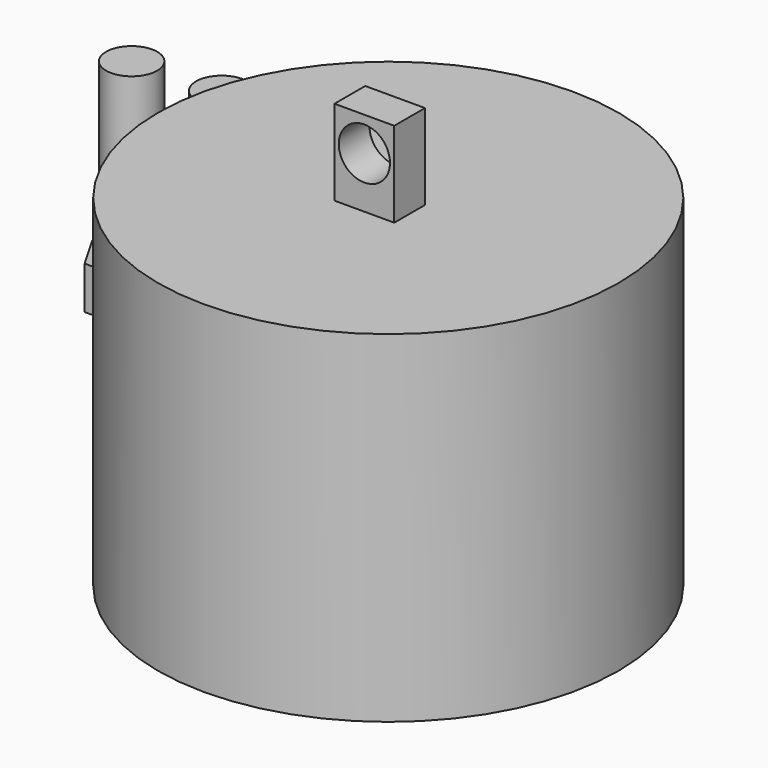
from build123d import *

# Parameters (mm, degrees)
F0_R      = 34.29
F1_DEPTH  = 50.8
F2_W      = 8.89
F2_H      = 5.715
F3_DEPTH  = 12.7
F4_R      = 3.81
F5_DEPTH  = 25.4
F7_DEPTH  = 6.35
F8_R      = 3.81
F9_DEPTH  = 15.24
F10_R     = 3.81
F11_DEPTH = 12.7
F13_DEPTH = 0.508
F15_DEPTH = 6.35
F16_R     = 3.81
F17_DEPTH = 25.4


with BuildPart() as f1:
    # F0 (on Top) → F1 (new body)
    with BuildSketch(Plane.XY):
        Circle(F0_R)
    extrude(amount=F1_DEPTH)

    # F2 (on face) → F3 (join)
    with BuildSketch(Plane.XY.offset(50.8)):
        with Locations((0, -1.5875)):
            Rectangle(F2_W, F2_H)
    extrude(amount=F3_DEPTH)

    # F4 (on face) → F5 (cut)
    with BuildSketch(Plane.XZ.offset(4.445)):
        with Locations((0, 58.42)):
            Circle(F4_R)
    extrude(amount=-F5_DEPTH, mode=Mode.SUBTRACT)


with BuildPart() as f7:
    # F6 (on Top) → F7 (new body)
    with BuildSketch(Plane.XY):
        Polygon((-69.9456740787, 47.7052103114), (-64.0797953437, 47.7052103114), (-61.1468559762, 52.7852103114), (-64.0797953437, 57.8652103114), (-69.9456740787, 57.8652103114), (-72.8786134461, 52.7852103114), align=None)
    extrude(amount=F7_DEPTH)

    # F8 (on face) → F9 (join)
    with BuildSketch(Plane.XY.offset(6.35)):
        with Locations((-67.0127347112, 52.7852103114)):
            Circle(F8_R)
    extrude(amount=F9_DEPTH)


with BuildPart() as f11:
    # F10 (on Top) → F11 (new body)
    with BuildSketch(Plane.XY):
        with Locations((-43.18, 50.8)):
            Circle(F10_R)
    extrude(amount=F11_DEPTH)

    # F12 (on face) → F13 (cut)
    with BuildSketch(Plane.XY.offset(12.7)):
        with BuildLine():
            ThreePointArc((-46.9559814618, 51.308), (-46.99, 50.8), (-46.9559814618, 50.292))
            Line((-46.9559814618, 50.292), (-39.4040185382, 50.292))
            ThreePointArc((-39.4040185382, 50.292), (-39.37, 50.8), (-39.4040185382, 51.308))
            Line((-39.4040185382, 51.308), (-46.9559814618, 51.308))
        make_face()
    extrude(amount=-F13_DEPTH, mode=Mode.SUBTRACT)


with BuildPart() as f15:
    # F14 (on Top) → F15 (new body)
    with BuildSketch(Plane.XY):
        Polygon((-70.5642212798, 31.7261475456), (-64.6983425448, 31.7261475456), (-61.7654031774, 36.8061475456), (-64.6983425448, 41.8861475456), (-70.5642212798, 41.8861475456), (-73.4971606473, 36.8061475456), align=None)
    extrude(amount=F15_DEPTH)

    # F16 (on face) → F17 (join)
    with BuildSketch(Plane.XY.offset(6.35)):
        with Locations((-67.6312819123, 36.8061475456)):
            Circle(F16_R)
    extrude(amount=F17_DEPTH)


solid = Compound([f1.part, f7.part, f11.part, f15.part])
